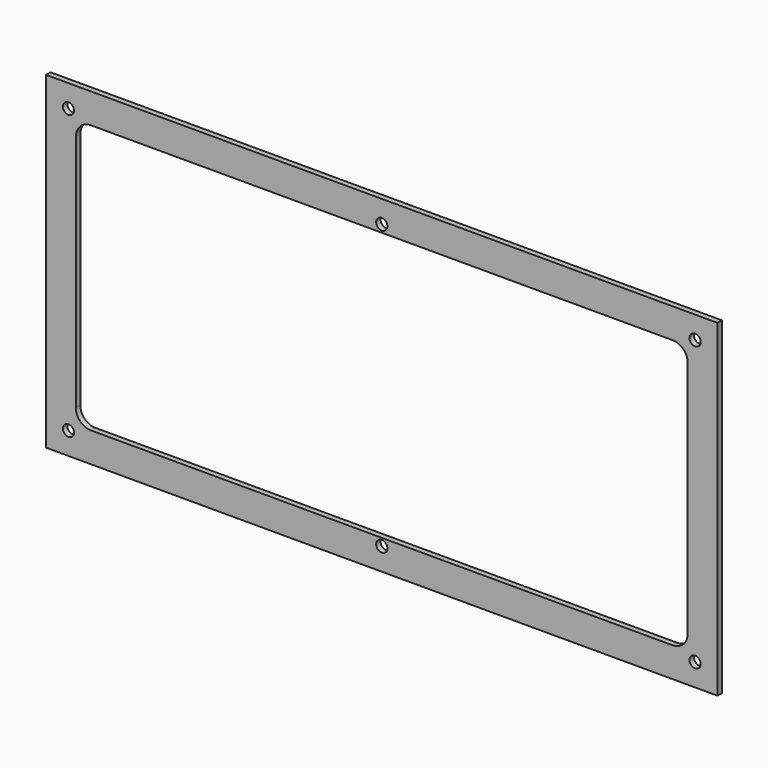
from build123d import *

# Parameters (mm, degrees)
F0_W     = 571.5
F0_H     = 279.4
F1_DEPTH = 4.699
F3_DEPTH = 4.7
F4_R     = 4.7625
F5_DEPTH = 4.7


with BuildPart() as f1:
    # F0 (on Front) → F1 (new body)
    with BuildSketch(Plane.XZ):
        Rectangle(F0_W, F0_H)
    extrude(amount=F1_DEPTH)

    # F2 (on face) → F3 (cut, through all)
    with BuildSketch(Plane.XZ.offset(4.699)):
        with BuildLine():
            Line((247.65, 114.3), (-247.65, 114.3))
            ThreePointArc((-247.65, 114.3), (-256.630256, 110.580256), (-260.35, 101.6))
            Line((-260.35, 101.6), (-260.35, -101.6))
            ThreePointArc((-260.35, -101.6), (-256.630256, -110.580256), (-247.65, -114.3))
            Line((-247.65, -114.3), (247.65, -114.3))
            ThreePointArc((247.65, -114.3), (256.630256, -110.580256), (260.35, -101.6))
            Line((260.35, -101.6), (260.35, 101.6))
            ThreePointArc((260.35, 101.6), (256.630256, 110.580256), (247.65, 114.3))
        make_face()
    extrude(amount=-F3_DEPTH, mode=Mode.SUBTRACT)

    # F4 (on face) → F5 (cut, through all)
    with BuildSketch(Plane.XZ.offset(4.699)):
        with Locations((-266.7, -120.65)):
            Circle(F4_R)
        with Locations((0, -120.65)):
            Circle(F4_R)
        with Locations((266.7, -120.65)):
            Circle(F4_R)
        with Locations((266.7, 120.65)):
            Circle(F4_R)
        with Locations((0, 120.65)):
            Circle(F4_R)
        with Locations((-266.7, 120.65)):
            Circle(F4_R)
    extrude(amount=-F5_DEPTH, mode=Mode.SUBTRACT)


solid = f1.part
